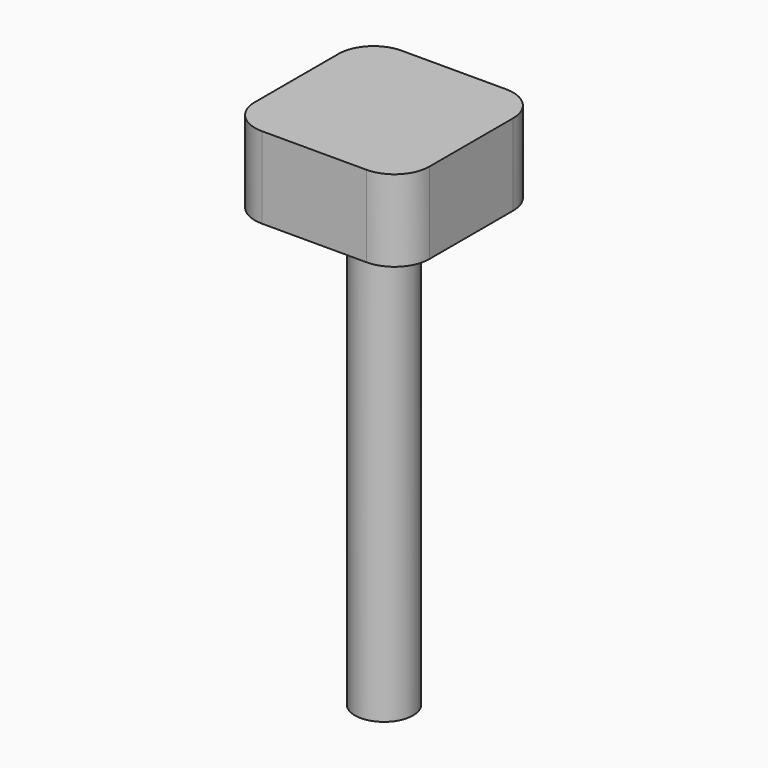
from build123d import *

# Parameters (mm, degrees)
SKETCH138_R  = 2.5
PAD069_DEPTH = 45
SKETCH139_W  = 15
SKETCH139_H  = 15
PAD070_DEPTH = 7
FILLET_R     = 3


with BuildPart() as part:
    # Sketch138 → Pad069 (new body)
    with BuildSketch(Plane.XY):
        Circle(SKETCH138_R)
    extrude(amount=PAD069_DEPTH)

    # Sketch139 (on Face3 of Pad069) → Pad070 (join)
    with BuildSketch(Plane.XY.offset(45)):
        Rectangle(SKETCH139_W, SKETCH139_H)
    extrude(amount=-PAD070_DEPTH)

    # Fillet
    fillet_edges = [part.edges().sort_by_distance(p)[0] for p in [
        (7.5, -7.5, 41.5),
        (7.5, 7.5, 41.5),
        (-7.5, 7.5, 41.5),
        (-7.5, -7.5, 41.5),
    ]]
    fillet(fillet_edges, radius=FILLET_R)


with BuildPart() as part_1:
    # Body040 placement: moved
    add(part.part.moved(Location((0, 0, 20))))


solid = part_1.part
